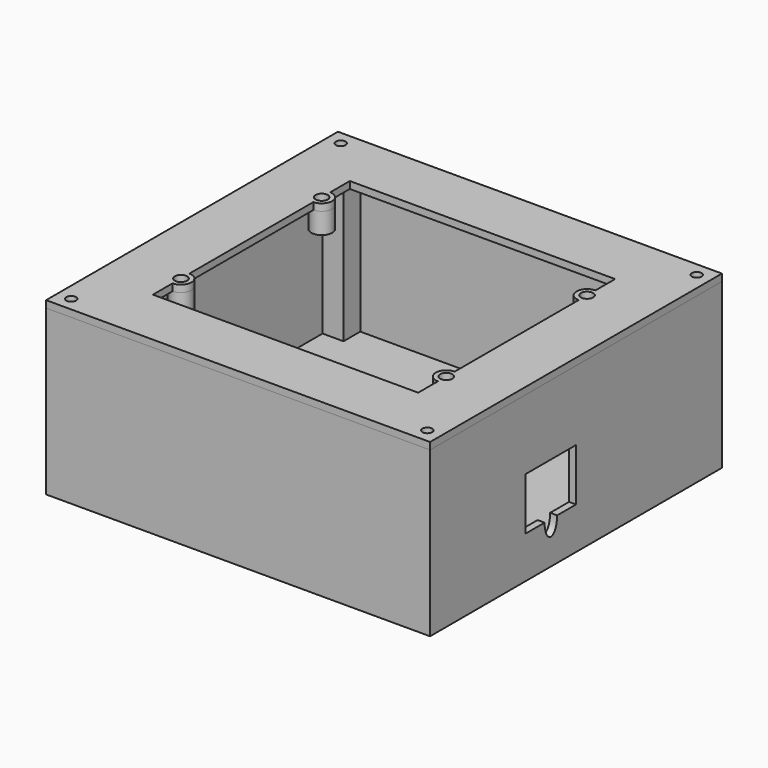
from build123d import *

# Parameters (mm, degrees)
SKETCH_W      = 110
SKETCH_H      = 104.5
SKETCH_R      = 1.75
SKETCH_R_2    = 1.4
PAD_DEPTH     = 2
SKETCH001_R   = 3
SKETCH001_R_2 = 1.75
PAD001_DEPTH  = 6
SKETCH002_W   = 110
SKETCH002_H   = 104.5
SKETCH002_R   = 1.15
PAD002_DEPTH  = 45
SKETCH003_W   = 110
SKETCH003_H   = 104.5
PAD003_DEPTH  = 2
POCKET_DEPTH  = 55.001


with BuildPart() as faceplate:
    # Sketch → Pad (new body)
    with BuildSketch(Plane.XY):
        Rectangle(SKETCH_W, SKETCH_H)
        with Locations((-38, 25.2)):
            Circle(SKETCH_R, mode=Mode.SUBTRACT)
        with Locations((38, 25.2)):
            Circle(SKETCH_R, mode=Mode.SUBTRACT)
        with Locations((-38, -25.2)):
            Circle(SKETCH_R, mode=Mode.SUBTRACT)
        with Locations((38, -25.2)):
            Circle(SKETCH_R, mode=Mode.SUBTRACT)
        with Locations((-51, 48.25)):
            Circle(SKETCH_R_2, mode=Mode.SUBTRACT)
        with Locations((51, 48.25)):
            Circle(SKETCH_R_2, mode=Mode.SUBTRACT)
        with Locations((-51, -48.25)):
            Circle(SKETCH_R_2, mode=Mode.SUBTRACT)
        with Locations((51, -48.25)):
            Circle(SKETCH_R_2, mode=Mode.SUBTRACT)
        with BuildLine():
            Line((38, 28.2), (38, 35.25))
            Line((38, 35.25), (-38, 35.25))
            Line((-38, 35.25), (-38, 28.2))
            ThreePointArc((-38, 22.2), (-35, 25.2), (-38, 28.2))
            Line((-38, 22.2), (-38, -22.2))
            ThreePointArc((-38, -28.2), (-35, -25.2), (-38, -22.2))
            Line((-38, -35.25), (-38, -28.2))
            Line((-38, -35.25), (38, -35.25))
            Line((38, -35.25), (38, -28.2))
            ThreePointArc((38, -22.2), (35, -25.2), (38, -28.2))
            Line((38, 22.2), (38, -22.2))
            ThreePointArc((38, 28.2), (35, 25.2), (38, 22.2))
        make_face(mode=Mode.SUBTRACT)
    extrude(amount=PAD_DEPTH)

    # Sketch001 → Pad001 (join)
    with BuildSketch(Plane.XY):
        with Locations((-38, 25.2)):
            Circle(SKETCH001_R)
        with Locations((-38, 25.2)):
            Circle(SKETCH001_R_2, mode=Mode.SUBTRACT)
        with Locations((38, -25.2)):
            Circle(SKETCH001_R)
        with Locations((38, -25.2)):
            Circle(SKETCH001_R_2, mode=Mode.SUBTRACT)
        with Locations((-38, -25.2)):
            Circle(SKETCH001_R)
        with Locations((-38, -25.2)):
            Circle(SKETCH001_R_2, mode=Mode.SUBTRACT)
        with Locations((38, 25.2)):
            Circle(SKETCH001_R)
        with Locations((38, 25.2)):
            Circle(SKETCH001_R_2, mode=Mode.SUBTRACT)
    extrude(amount=-PAD001_DEPTH)


with BuildPart() as box:
    # Sketch002 → Pad002 (new body)
    with BuildSketch(Plane.XY):
        Rectangle(SKETCH002_W, SKETCH002_H)
        with Locations((-51, 48.25)):
            Circle(SKETCH002_R, mode=Mode.SUBTRACT)
        with Locations((-51, -48.25)):
            Circle(SKETCH002_R, mode=Mode.SUBTRACT)
        with Locations((51, -48.25)):
            Circle(SKETCH002_R, mode=Mode.SUBTRACT)
        with Locations((51, 48.25)):
            Circle(SKETCH002_R, mode=Mode.SUBTRACT)
        Polygon((47, 50.25), (-47, 50.25), (-47, 44.25), (-53, 44.25), (-53, -44.25), (-47, -44.25), (-47, -50.25), (47, -50.25), (47, -44.25), (53, -44.25), (53, 44.25), (47, 44.25), align=None, mode=Mode.SUBTRACT)
    extrude(amount=-PAD002_DEPTH)

    # Sketch003 (on Face22 of Pad002) → Pad003 (join)
    with BuildSketch(Plane(origin=(0, 0, -45), x_dir=(1, 0, 0), z_dir=(0, 0, -1))):
        Rectangle(SKETCH003_W, SKETCH003_H)
    extrude(amount=PAD003_DEPTH)

    # Sketch004 → Pocket (cut, through all)
    with BuildSketch(Plane.YZ):
        with BuildLine():
            Line((-18, -20), (0, -20))
            Line((0, -20), (0, -35))
            Line((0, -35), (-6.75, -35))
            add(Edge.make_bspline(
                [(-11.25, -35), (-11.25, -39.5), (-9, -39.5), (-6.75, -39.5), (-6.75, -35)],
                knots=[1.570796, 1.570796, 1.570796, 3.141593, 3.141593, 4.712389, 4.712389, 4.712389], degree=2, weights=[1, 0.707107, 1, 0.707107, 1]))
            Line((-11.25, -35), (-18, -35))
            Line((-18, -35), (-18, -20))
        make_face()
    extrude(amount=POCKET_DEPTH, mode=Mode.SUBTRACT)


solid = Compound([faceplate.part, box.part])
